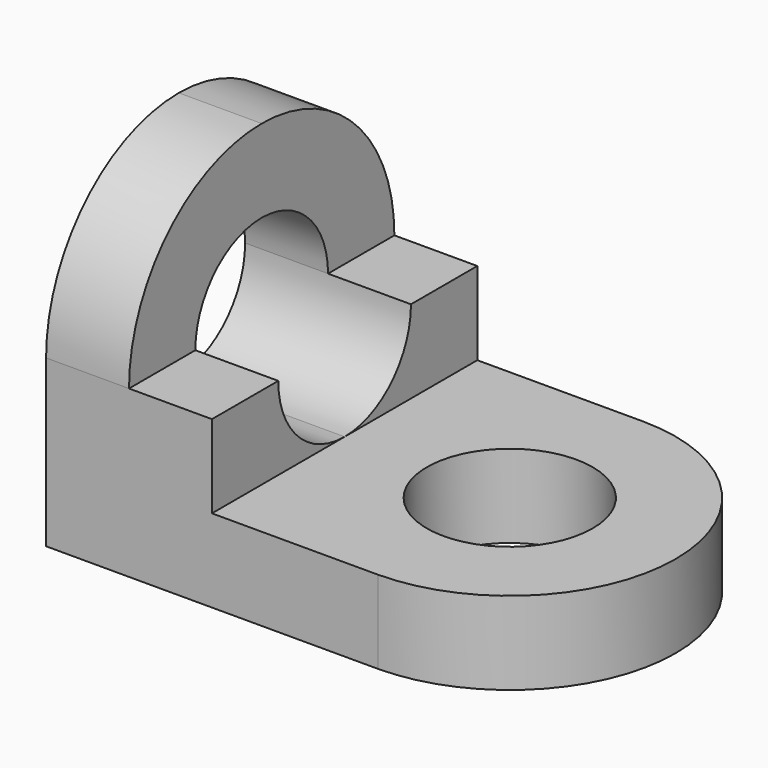
from build123d import *

# Parameters (mm, degrees)
F1_DEPTH = 40
F3_DEPTH = 20
F5_DEPTH = 20
F7_DEPTH = 10
F8_R     = 10
F9_DEPTH = 10


with BuildPart() as f1:
    # F0 (on Front) → F1 (new body)
    with BuildSketch(Plane.XZ):
        Polygon((0, 40), (0, 0), (60, 0), (60, 10), (20, 10), (20, 20), (10, 20), (10, 40), align=None)
    extrude(amount=F1_DEPTH)

    # F2 (on face) → F3 (cut)
    with BuildSketch(Plane.YZ.offset(20)):
        with BuildLine():
            Line((-30, 20), (-10, 20))
            ThreePointArc((-10, 20), (-20, 30), (-30, 20))
        make_face()
        with BuildLine():
            ThreePointArc((-20, 10), (-12.928932, 12.928932), (-10, 20))
            Line((-10, 20), (-30, 20))
            ThreePointArc((-30, 20), (-27.071068, 12.928932), (-20, 10))
        make_face()
    extrude(amount=-F3_DEPTH, mode=Mode.SUBTRACT)

    # F4 (on face) → F5 (cut)
    with BuildSketch(Plane.YZ.offset(10)):
        with BuildLine():
            ThreePointArc((-40, 20), (-34.142136, 34.142136), (-20, 40))
            Line((-20, 40), (-40, 40))
            Line((-40, 40), (-40, 20))
        make_face()
        with BuildLine():
            ThreePointArc((-20, 40), (-5.857864, 34.142136), (0, 20))
            Line((0, 20), (0, 40))
            Line((0, 40), (-20, 40))
        make_face()
    extrude(amount=-F5_DEPTH, mode=Mode.SUBTRACT)

    # F6 (on face) → F7 (cut)
    with BuildSketch(Plane.XY.offset(10)):
        with BuildLine():
            ThreePointArc((40, 0), (59.915563, -20), (40, -40))
            Line((40, -40), (60, -40))
            Line((60, -40), (60, 0))
            Line((60, 0), (40, 0))
        make_face()
    extrude(amount=-F7_DEPTH, mode=Mode.SUBTRACT)

    # F8 (on face) → F9 (cut)
    with BuildSketch(Plane.XY.offset(10)):
        with Locations((39.915384, -20)):
            Circle(F8_R)
    extrude(amount=-F9_DEPTH, mode=Mode.SUBTRACT)


solid = f1.part
